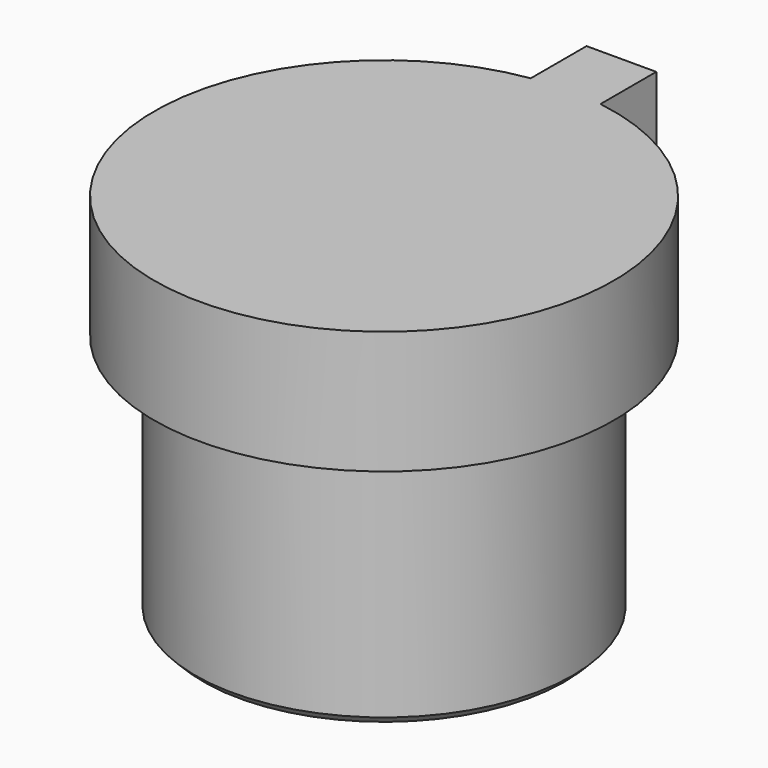
from build123d import *

# Parameters (mm, degrees)
SKETCH052_R     = 2.3
PAD036_DEPTH    = 3
PAD037_DEPTH    = 1.5
POCKET009_DEPTH = 0.6
CHAMFER003_SIZE = 0.1


with BuildPart() as part:
    # Sketch052 → Pad036 (new body)
    with BuildSketch(Plane.XY):
        Circle(SKETCH052_R)
    extrude(amount=PAD036_DEPTH)

    # Sketch053 (on Face3 of Pad036) → Pad037 (join)
    with BuildSketch(Plane.XY.offset(3)):
        with BuildLine():
            Line((0.425, 2.767558), (0.425, 3.617558))
            Line((0.425, 3.617558), (-0.425, 3.617558))
            Line((-0.425, 3.617558), (-0.425, 2.767558))
            ThreePointArc((-0.425, 2.767558), (0, -2.8), (0.425, 2.767558))
        make_face()
    extrude(amount=PAD037_DEPTH)

    # Sketch054 → Pocket009 (cut)
    with BuildSketch(Plane.XY):
        Polygon((-0.9, 1.443376), (1.6, 0), (-0.9, -1.443376), align=None)
    extrude(amount=POCKET009_DEPTH, mode=Mode.SUBTRACT)

    # Chamfer003
    chamfer003_edges = [part.edges().sort_by_distance(p)[0] for p in [
        (0.35, 0.721688, 0),
        (-0.9, 0, 0),
        (0.35, -0.721688, 0),
        (-2.3, 0, 0),
    ]]
    chamfer(chamfer003_edges, length=CHAMFER003_SIZE)


with BuildPart() as part_1:
    # Body015 placement: moved
    add(part.part.moved(Location((63.6, 11.5, -1.5))))


solid = part_1.part
